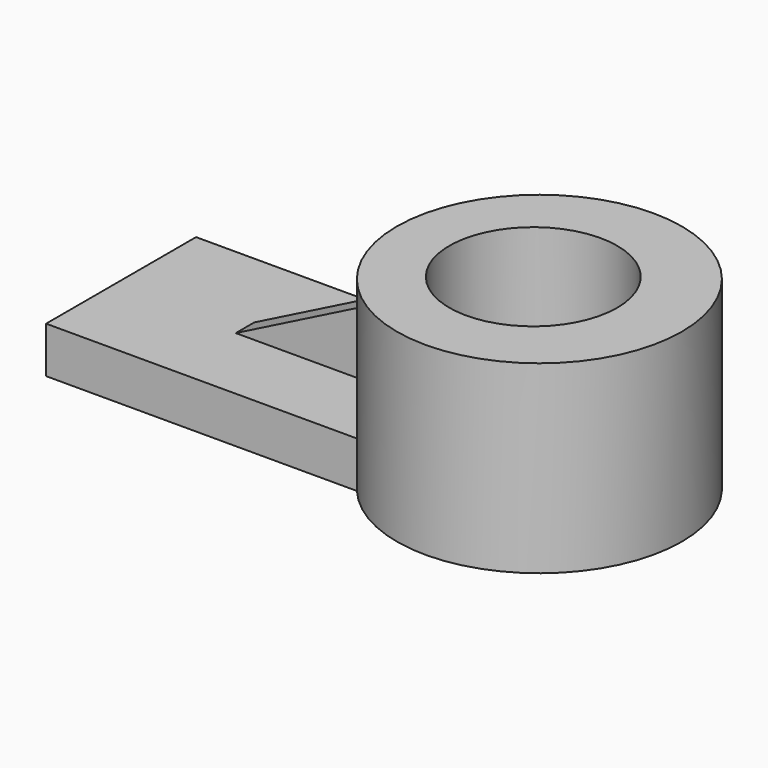
from build123d import *

# Parameters (mm, degrees)
F1_DEPTH = 50.8
F2_R     = 23.0676038816
F3_DEPTH = 130.048
F4_W     = 88.9319777489
F4_H     = 51.5172313899
F5_DEPTH = 12.7
F7_DEPTH = 3.175


with BuildPart() as f1:
    # F0 (on Top) → F1 (new body)
    with BuildSketch(Plane.XY):
        with BuildLine():
            ThreePointArc((16.3361351828, -31.75), (57.1135301245, -34.8840355997), (78.4611805258, 0))
            ThreePointArc((78.4611805258, 0), (57.1135301245, 34.8840355997), (16.3361351828, 31.75))
            Line((16.3361351828, 31.75), (29.5000914484, 31.75))
            Line((29.5000914484, 31.75), (29.5000914484, -31.75))
            Line((29.5000914484, -31.75), (16.3361351828, -31.75))
        make_face()
        with BuildLine():
            Line((29.5000914484, 31.75), (16.3361351828, 31.75))
            ThreePointArc((16.3361351828, 31.75), (0.109788877, 0), (16.3361351828, -31.75))
            Line((16.3361351828, -31.75), (29.5000914484, -31.75))
            Line((29.5000914484, -31.75), (29.5000914484, 31.75))
        make_face()
    extrude(amount=F1_DEPTH)

    # F2 (on Top) → F3 (cut)
    with BuildSketch(Plane.XY):
        with Locations((37.608332932, 0)):
            Circle(F2_R)
    extrude(amount=F3_DEPTH, mode=Mode.SUBTRACT)

    # F4 (on Top) → F5 (join)
    with BuildSketch(Plane.XY):
        with Locations((-31.6792652011, 0.5756122991)):
            Rectangle(F4_W, F4_H)
    extrude(amount=F5_DEPTH)

    # F6 (on Front) → F7 (join, symmetric)
    with BuildSketch(Plane.XZ):
        Polygon((0, 0), (0, 33.8171757758), (-66.6476637125, 0), align=None)
    extrude(amount=F7_DEPTH, both=True)


solid = f1.part
